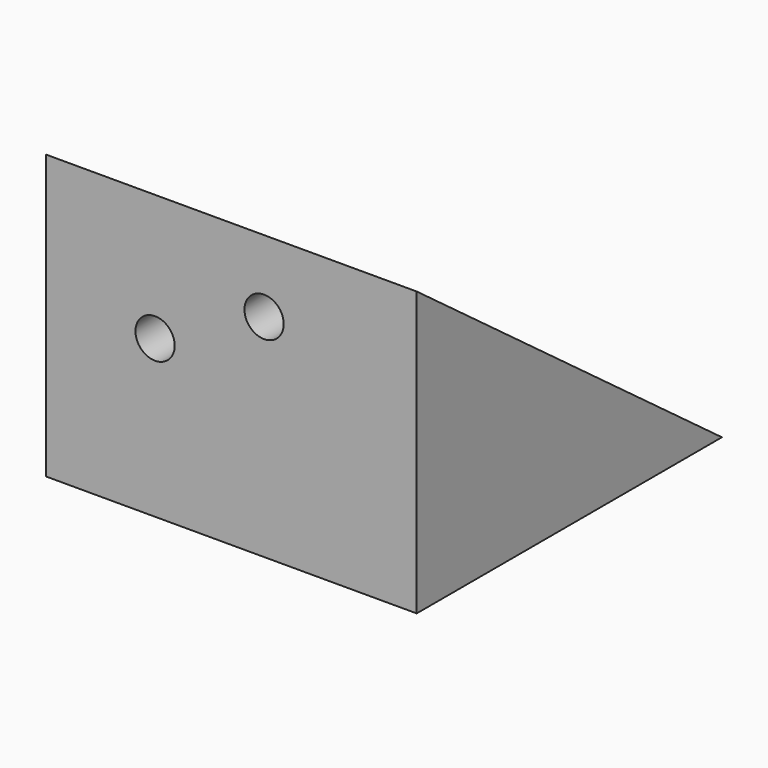
from build123d import *

# Parameters (mm, degrees)
PAD032_DEPTH    = 43.18
SKETCH068_R     = 2.286
POCKET031_DEPTH = 5.08
SKETCH069_R     = 2.286
POCKET032_DEPTH = 4.318


with BuildPart() as part:
    # Sketch067 → Pad032 (new body)
    with BuildSketch(Plane.YZ):
        Polygon((0, 0), (0, 33.02), (44.45, 0), align=None)
    extrude(amount=PAD032_DEPTH)

    # Sketch068 (on Face1 of Pad032) → Pocket031 (cut)
    with BuildSketch(Plane(origin=(0, 0, 0), x_dir=(0, 0, -1), z_dir=(0, -1, 0))):
        with Locations((-18.288, 12.7)):
            Circle(SKETCH068_R)
        with Locations((-24.638, 25.4)):
            Circle(SKETCH068_R)
    extrude(amount=-POCKET031_DEPTH, mode=Mode.SUBTRACT)

    # Sketch069 (on Face5 of Pocket031) → Pocket032 (cut)
    with BuildSketch(Plane(origin=(0, 15.8065228827, 21.2780115729), x_dir=(0, -0.802743848, 0.5963240013), z_dir=(0, 0.5963240013, 0.802743848))):
        with Locations((13.3406185242, 34.29)):
            Circle(SKETCH069_R)
        with Locations((13.3406185242, 8.89)):
            Circle(SKETCH069_R)
        with Locations((-24.7593814758, 34.29)):
            Circle(SKETCH069_R)
        with Locations((-24.7593814758, 8.89)):
            Circle(SKETCH069_R)
    extrude(amount=-POCKET032_DEPTH, mode=Mode.SUBTRACT)


with BuildPart() as part_1:
    # Body024 placement: moved
    add(part.part.moved(Location((25.4, 63.5, -3.048))))


solid = part_1.part
